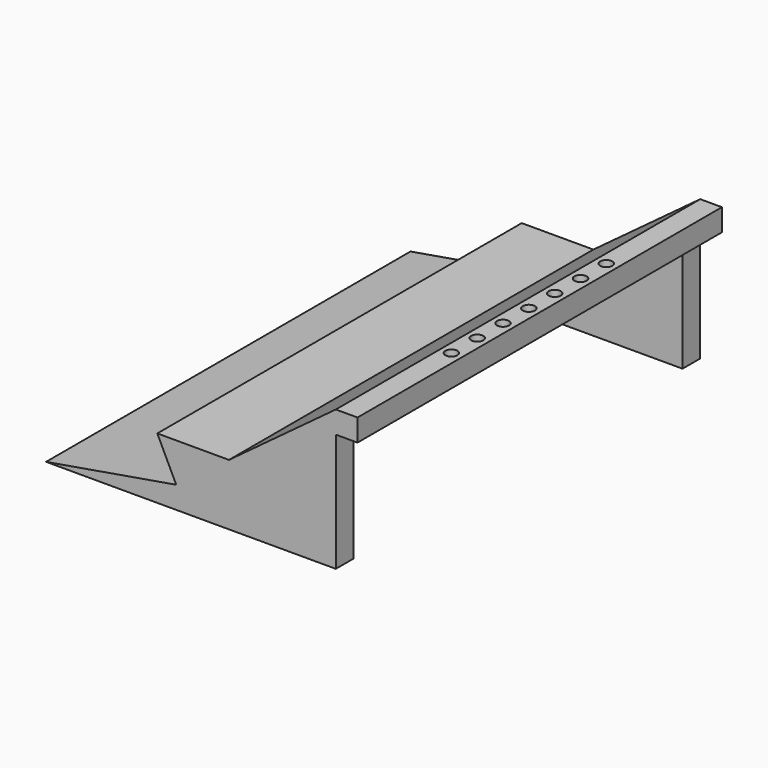
from build123d import *

# Parameters (mm, degrees)
F1_DEPTH = 133.35
F2_W     = 6.477
F2_H     = 34.5941142
F5_DEPTH = 6.35
F6_R     = 1.778
F7_DEPTH = 25.4


with BuildPart() as f1:
    # F0 (on Front) → F1 (new body)
    with BuildSketch(Plane.XZ):
        Polygon((-23.3606961086, -17.2970571), (23.3606961086, 17.2970571), (23.3606961086, 23.7740571), (-7.9238067593, 0.6099429), (-23.3606961086, 0.6099429), (-28.8964977668, 0.6099429), (-23.3606961086, -10.8200571), (-61.4606961086, -17.2970571), align=None)
    extrude(amount=F1_DEPTH)

    # F2 (on face) → F3 (join, up to the next surface of F1)
    with BuildSketch(Plane.YZ.offset(23.3606961086)):
        with Locations((-130.1115, 0)):
            Rectangle(F2_W, F2_H)
        with Locations((-3.2385, 0)):
            Rectangle(F2_W, F2_H)
    extrude(until=Until.NEXT, dir=(-1, 0, 0))

    # F4 (on face) → F5 (join)
    with BuildSketch(Plane.YZ.offset(23.3606961086)):
        Polygon((0, 23.7740571), (-133.35, 23.7740571), (-133.35, 17.2970571), (-126.873, 17.2970571), (-6.477, 17.2970571), (0, 17.2970571), align=None)
    extrude(amount=F5_DEPTH)

    # F6 (on face) → F7 (cut)
    with BuildSketch(Plane.XY.offset(23.7740571)):
        with Locations((26.5356961086, -38.3286)):
            Circle(F6_R)
        with Locations((26.5356961086, -47.7774)):
            Circle(F6_R)
        with Locations((26.5356961086, -57.2262)):
            Circle(F6_R)
        with Locations((26.5356961086, -66.675)):
            Circle(F6_R)
        with Locations((26.5356961086, -76.1238)):
            Circle(F6_R)
        with Locations((26.5356961086, -85.5726)):
            Circle(F6_R)
        with Locations((26.5356961086, -95.0214)):
            Circle(F6_R)
    extrude(amount=-F7_DEPTH, mode=Mode.SUBTRACT)


solid = f1.part
